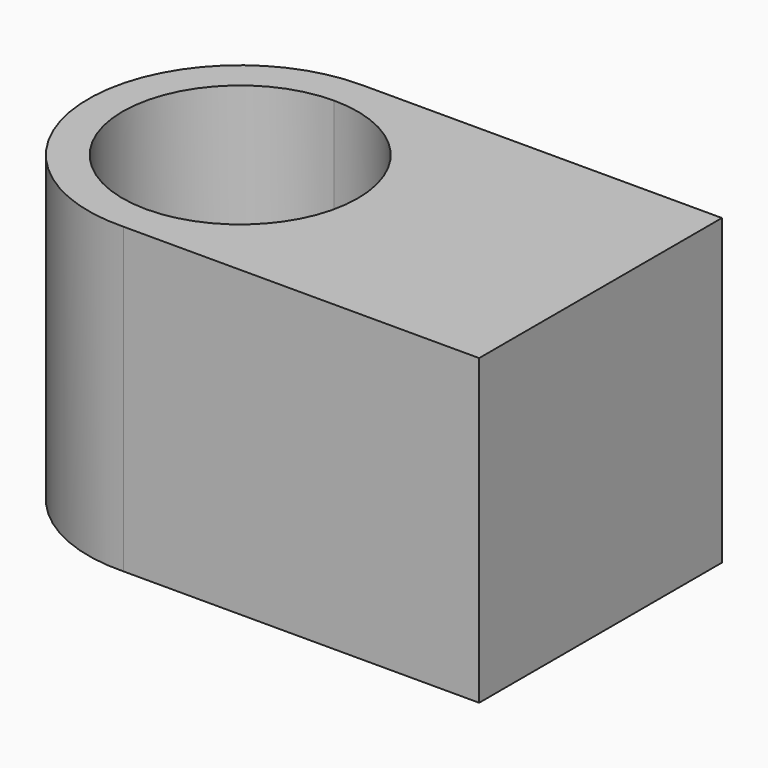
from build123d import *

# Parameters (mm, degrees)
F1_DEPTH = 16


with BuildPart() as f1:
    # F0 (on Top) → F1 (new body)
    with BuildSketch(Plane.XY):
        with BuildLine():
            ThreePointArc((0, -6.2), (-6.2, 0), (0, 6.2))
            Line((0, 6.2), (0, 8.001829))
            ThreePointArc((0, 8.001829), (-8.000914, -0.120968), (0.241908, -7.998171))
            Line((0.241908, -7.998171), (0, -7.998171))
            Line((0, -7.998171), (0, -6.2))
        make_face()
        with BuildLine():
            ThreePointArc((0, 6.2), (4.384062, 4.384062), (6.2, 0))
            ThreePointArc((6.2, 0), (4.384062, -4.384062), (0, -6.2))
            Line((0, -6.2), (0, -7.998171))
            Line((0, -7.998171), (0.241908, -7.998171))
            ThreePointArc((0.241908, -7.998171), (5.743038, -5.571964), (8.001829, 0))
            ThreePointArc((8.001829, 0), (5.658147, 5.658147), (0, 8.001829))
            Line((0, 8.001829), (0, 6.2))
        make_face()
        with BuildLine():
            Line((19, 8.001829), (0, 8.001829))
            ThreePointArc((0, 8.001829), (5.658147, 5.658147), (8.001829, 0))
            ThreePointArc((8.001829, 0), (5.743038, -5.571964), (0.241908, -7.998171))
            Line((0.241908, -7.998171), (19, -7.998171))
            Line((19, -7.998171), (19, 8.001829))
        make_face()
    extrude(amount=F1_DEPTH)


solid = f1.part
